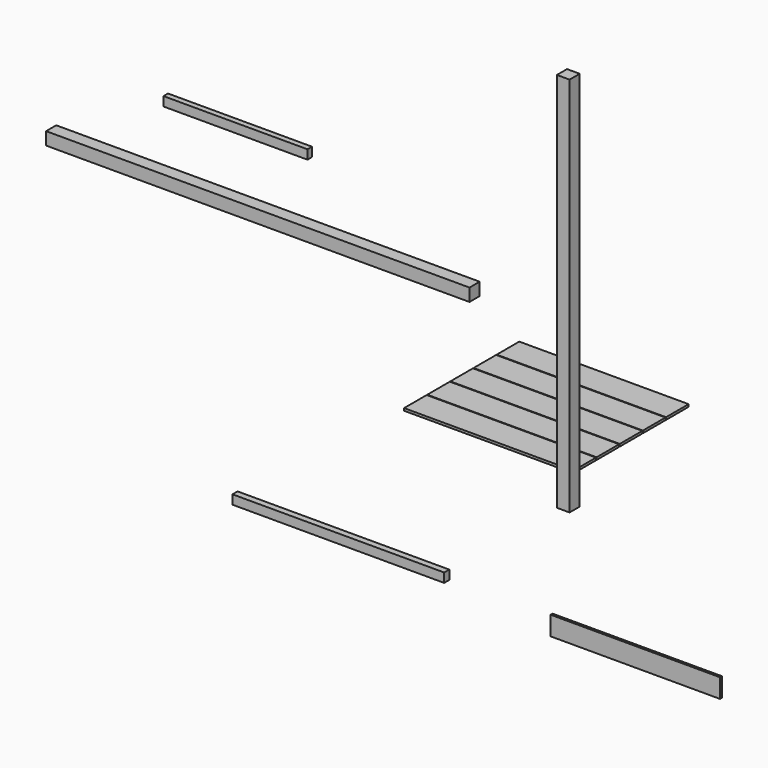
from build123d import *

# Parameters (mm, degrees)
F0_W      = 90
F0_H      = 2700
F1_DEPTH  = 90
F2_W      = 3000
F2_H      = 90
F3_DEPTH  = 90
F4_W      = 1500
F4_H      = 65
F5_DEPTH  = 45
F6_W      = 1200
F6_H      = 135
F7_DEPTH  = 17
F8_W      = 1020
F8_H      = 65
F9_DEPTH  = 40
F10_W     = 1200
F10_H     = 200
F11_DEPTH = 17


with BuildPart() as f1:
    # F0 (on Front) → F1 (new body)
    with BuildSketch(Plane.XZ):
        with Locations((-93.11433, 1296.699694)):
            Rectangle(F0_W, F0_H)
    extrude(amount=F1_DEPTH)


with BuildPart() as f3:
    # F2 (on Front) → F3 (new body)
    with BuildSketch(Plane.XZ):
        with Locations((-2257.28339, 1074.110551)):
            Rectangle(F2_W, F2_H)
    extrude(amount=F3_DEPTH)


with BuildPart() as f5:
    # F4 (on Front) → F5 (new body)
    with BuildSketch(Plane.XZ):
        with Locations((-1722.711861, -779.025524)):
            Rectangle(F4_W, F4_H)
    extrude(amount=F5_DEPTH)


with BuildPart() as f7:
    # F6 (on Front) → F7 (new body)
    with BuildSketch(Plane.XZ):
        with Locations((359.212482, -850.785966)):
            Rectangle(F6_W, F6_H)
    extrude(amount=F7_DEPTH)


with BuildPart() as f9:
    # F8 (on Front) → F9 (new body)
    with BuildSketch(Plane.XZ):
        with Locations((-2455.112705, 1542.482824)):
            Rectangle(F8_W, F8_H)
    extrude(amount=F9_DEPTH)


with BuildPart() as f11:
    # F10 (on Top) → F11 (new body)
    with BuildSketch(Plane.XY):
        with Locations((-860.39955, 924.619805)):
            Rectangle(F10_W, F10_H)
        with Locations((-860.39955, 1129.619805)):
            Rectangle(F10_W, F10_H)
        with Locations((-860.39955, 719.619805)):
            Rectangle(F10_W, F10_H)
        with Locations((-860.39955, 514.619805)):
            Rectangle(F10_W, F10_H)
        with Locations((-860.39955, 309.619805)):
            Rectangle(F10_W, F10_H)
    extrude(amount=F11_DEPTH)


solid = Compound([f1.part, f3.part, f5.part, f7.part, f9.part, f11.part])
